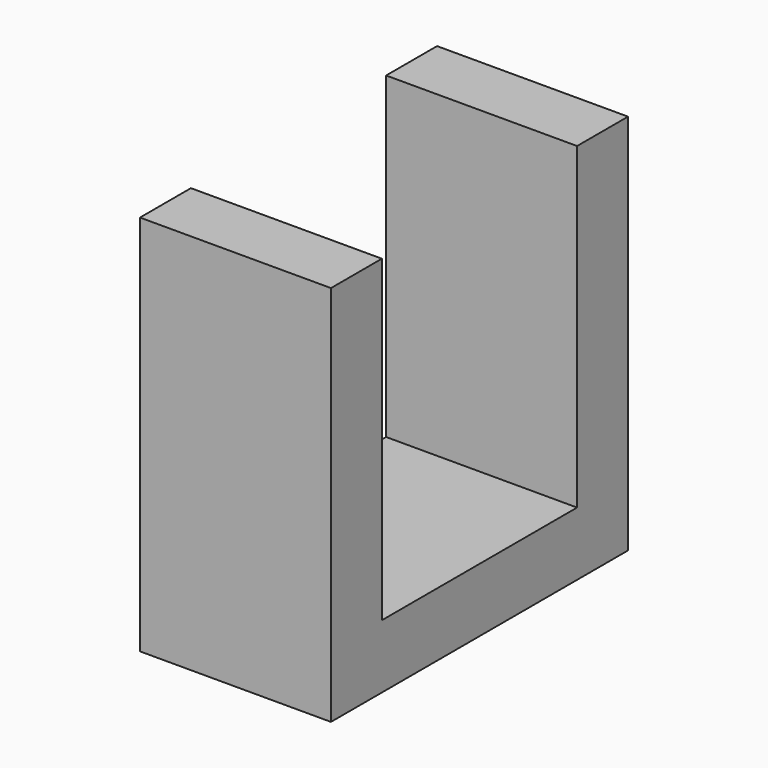
from build123d import *

# Parameters (mm, degrees)
F0_W     = 9
F0_H     = 3
F1_DEPTH = 18
F0_H_2   = 11.5
F2_DEPTH = 3


with BuildPart() as f1:
    # F0 (on Top) → F1 (new body)
    with BuildSketch(Plane.XY):
        with Locations((-37.2173463006, -1.5)):
            Rectangle(F0_W, F0_H)
    extrude(amount=F1_DEPTH)



with BuildPart() as f1b:
    # F0 (on Top) → F1, piece 2 (new body)
    with BuildSketch(Plane.XY):
        with Locations((-37.2173463006, -16)):
            Rectangle(F0_W, F0_H)
    extrude(amount=F1_DEPTH)


with BuildPart() as f1_1:
    add(f1.part)

    add(f1b.part)  # F2 merges F1b
    # F0 (on Top) → F2 (join)
    with BuildSketch(Plane.XY):
        with Locations((-37.2173463006, -8.75)):
            Rectangle(F0_W, F0_H_2)
    extrude(amount=F2_DEPTH)


solid = f1_1.part
